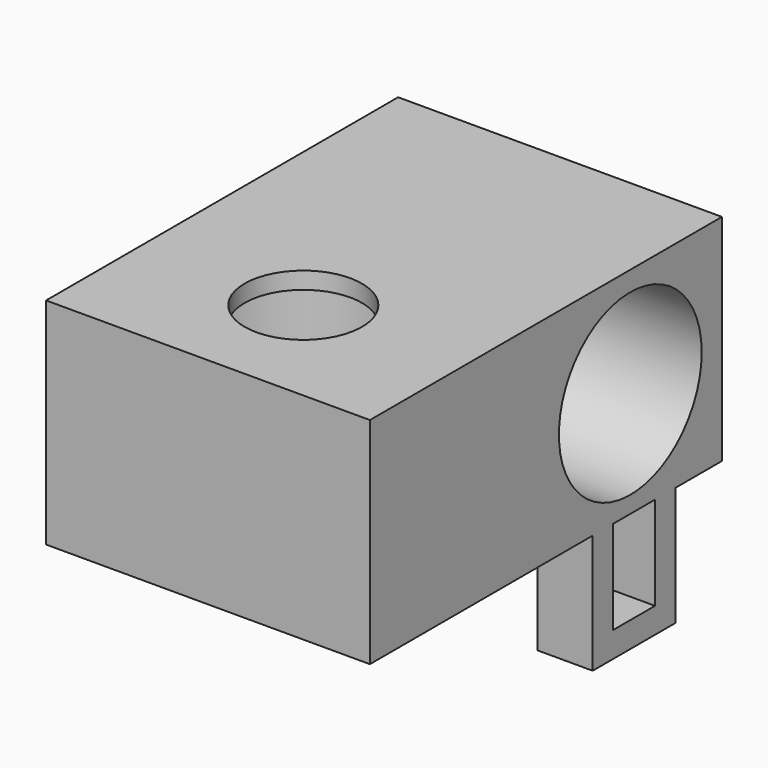
from build123d import *

# Parameters (mm, degrees)
F0_W     = 25.8862247349
F0_H     = 12.6448004093
F0_R     = 5.25
F1_DEPTH = 19.05
F3_DEPTH = 1
F4_START = -1
F4_DEPTH = 24.4
F6_DEPTH = 3.2512
F7_START = -15.5194
F7_DEPTH = 3.5306


with BuildPart() as f1:
    # F0 (on Right) → F1 (new body)
    with BuildSketch(Plane.YZ):
        with Locations((-3.152461024, -0.6018574079)):
            Rectangle(F0_W, F0_H)
        with Locations((3.0532879755, -0.688746688)):
            Circle(F0_R, mode=Mode.SUBTRACT)
    extrude(amount=F1_DEPTH)

    # F2 (on face) → F3 (cut)
    with BuildSketch(Plane.XY.offset(5.7205427967)):
        with BuildLine():
            Line((9.525, -9.0865883976), (12.975, -9.0865883976))
            ThreePointArc((12.975, -9.0865883976), (9.525, -5.6365883976), (6.075, -9.0865883976))
            Line((6.075, -9.0865883976), (9.525, -9.0865883976))
        make_face()
        with BuildLine():
            ThreePointArc((6.075, -9.0865883976), (9.525, -12.5365883976), (12.975, -9.0865883976))
            Line((12.975, -9.0865883976), (9.525, -9.0865883976))
            Line((9.525, -9.0865883976), (6.075, -9.0865883976))
        make_face()
    extrude(amount=-F3_DEPTH, mode=Mode.SUBTRACT)

    # F2 (on face) → F4 (cut)
    with BuildSketch(Plane.XY.offset(5.7205427967).offset(F4_START)):
        with BuildLine():
            Line((15.525, -9.0865883976), (12.975, -9.0865883976))
            ThreePointArc((12.975, -9.0865883976), (9.525, -12.5365883976), (6.075, -9.0865883976))
            Line((6.075, -9.0865883976), (3.525, -9.0865883976))
            ThreePointArc((3.525, -9.0865883976), (9.525, -15.0865883976), (15.525, -9.0865883976))
        make_face()
        with BuildLine():
            Line((9.525, -9.0865883976), (12.975, -9.0865883976))
            ThreePointArc((12.975, -9.0865883976), (9.525, -5.6365883976), (6.075, -9.0865883976))
            Line((6.075, -9.0865883976), (9.525, -9.0865883976))
        make_face()
        with BuildLine():
            ThreePointArc((6.075, -9.0865883976), (9.525, -5.6365883976), (12.975, -9.0865883976))
            Line((12.975, -9.0865883976), (15.525, -9.0865883976))
            ThreePointArc((15.525, -9.0865883976), (9.525, -3.0865883976), (3.525, -9.0865883976))
            Line((3.525, -9.0865883976), (6.075, -9.0865883976))
        make_face()
        with BuildLine():
            ThreePointArc((6.075, -9.0865883976), (9.525, -12.5365883976), (12.975, -9.0865883976))
            Line((12.975, -9.0865883976), (9.525, -9.0865883976))
            Line((9.525, -9.0865883976), (6.075, -9.0865883976))
        make_face()
    extrude(amount=-F4_DEPTH, mode=Mode.SUBTRACT)

    # F5 (on face) → F6 (join)
    with BuildSketch(Plane.YZ.offset(19.05)):
        Polygon((6.3707139343, -13.9242576137), (6.3707139343, -6.9242576137), (4.8707139343, -6.9242576126), (4.8707139343, -12.4242576137), (1.7881980821, -12.4242576137), (1.7881980821, -6.9242576137), (0.2881980821, -6.9242576126), (0.2881980821, -13.9242576137), align=None)
    extrude(amount=-F6_DEPTH)

    # F5 (on face) → F7 (join)
    with BuildSketch(Plane.YZ.offset(19.05).offset(F7_START)):
        Polygon((6.3707139343, -13.9242576137), (6.3707139343, -6.9242576137), (4.8707139343, -6.9242576126), (4.8707139343, -12.4242576137), (1.7881980821, -12.4242576137), (1.7881980821, -6.9242576137), (0.2881980821, -6.9242576126), (0.2881980821, -13.9242576137), align=None)
    extrude(amount=-F7_DEPTH)


solid = f1.part
